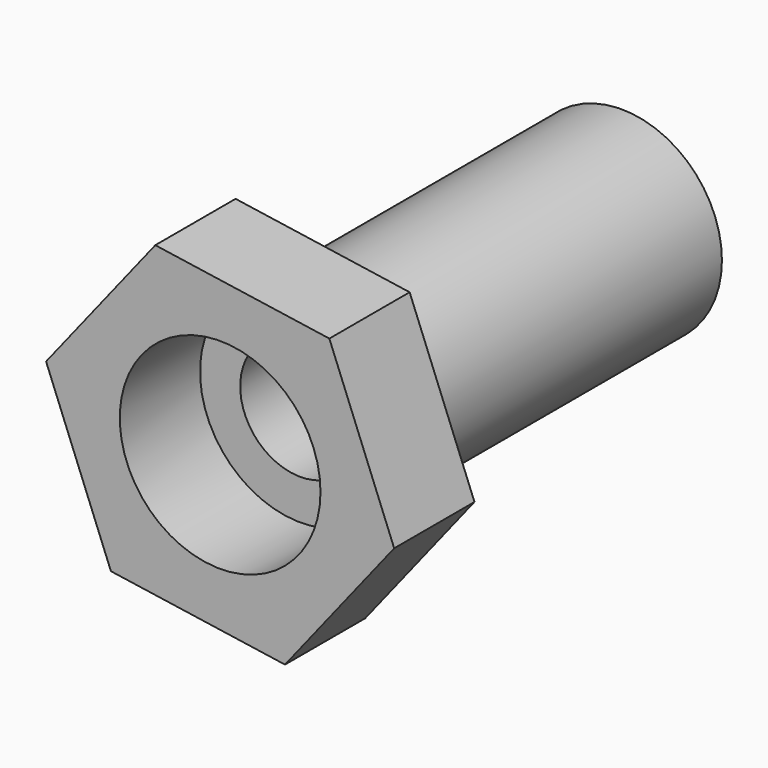
from build123d import *

# Parameters (mm, degrees)
F0_R     = 25
F0_R_2   = 15
F1_DEPTH = 100
F2_R     = 25
F3_DEPTH = 25


with BuildPart() as f1:
    # F0 (on Front) → F1 (new body)
    with BuildSketch(Plane.XZ):
        Circle(F0_R)
        Circle(F0_R_2, mode=Mode.SUBTRACT)
        Circle(F0_R)
        Circle(F0_R_2, mode=Mode.SUBTRACT)
    extrude(amount=F1_DEPTH)


with BuildPart() as f3:
    # F2 (on face) → F3 (new body)
    with BuildSketch(Plane.XZ.offset(100)):
        Polygon((16.150799, -40.741477), (43.358553, -6.383736), (27.207754, 34.35774), (-16.150799, 40.741477), (-43.358553, 6.383736), (-27.207754, -34.35774), align=None)
        Circle(F2_R, mode=Mode.SUBTRACT)
    extrude(amount=F3_DEPTH)


solid = Compound([f1.part, f3.part])
